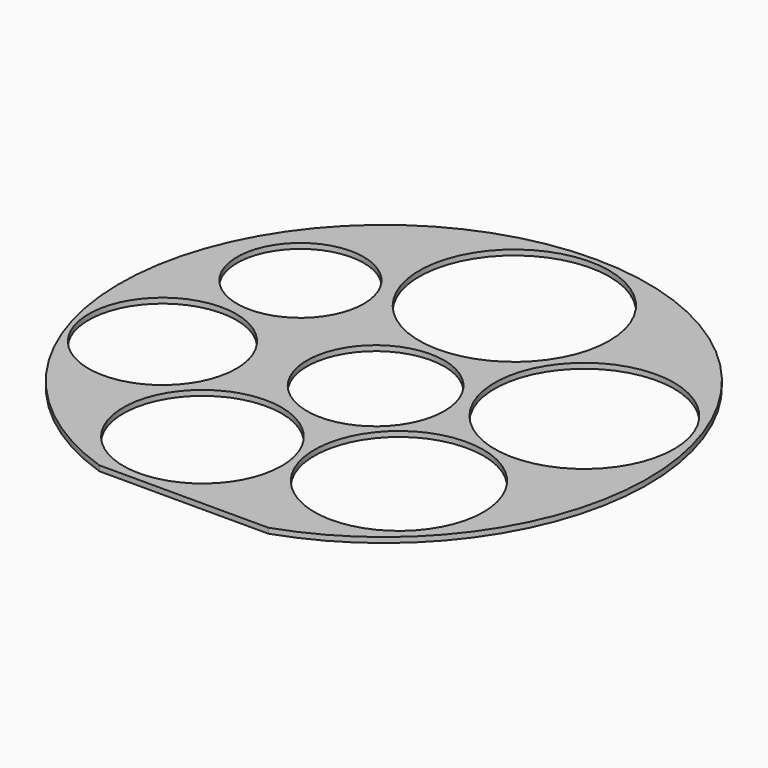
from build123d import *

# Parameters (mm, degrees)
F0_R     = 15
F0_R_2   = 14
F0_R_3   = 13
F0_R_4   = 16
F0_R_5   = 12
F0_R_6   = 18
F0_R_7   = 17
F1_DEPTH = 1


with BuildPart() as f1:
    # F0 (on Top) → F1 (new body)
    with BuildSketch(Plane.XY):
        with BuildLine():
            Line((-16, -47.370877), (16, -47.370877))
            ThreePointArc((16, -47.370877), (0, 50), (-16, -47.370877))
        make_face()
        with Locations((-9.797097, -30.697571)):
            Circle(F0_R, mode=Mode.SUBTRACT)
        with Locations((-33.496745, -10.543544)):
            Circle(F0_R_2, mode=Mode.SUBTRACT)
        with Locations((0, -1.95942)):
            Circle(F0_R_3, mode=Mode.SUBTRACT)
        with Locations((21.740226, -23.606339)):
            Circle(F0_R_4, mode=Mode.SUBTRACT)
        with Locations((-29.764516, 17.448165)):
            Circle(F0_R_5, mode=Mode.SUBTRACT)
        with Locations((0, 30.884182)):
            Circle(F0_R_6, mode=Mode.SUBTRACT)
        with Locations((30.137738, 9.797097)):
            Circle(F0_R_7, mode=Mode.SUBTRACT)
    extrude(amount=F1_DEPTH)


solid = f1.part
